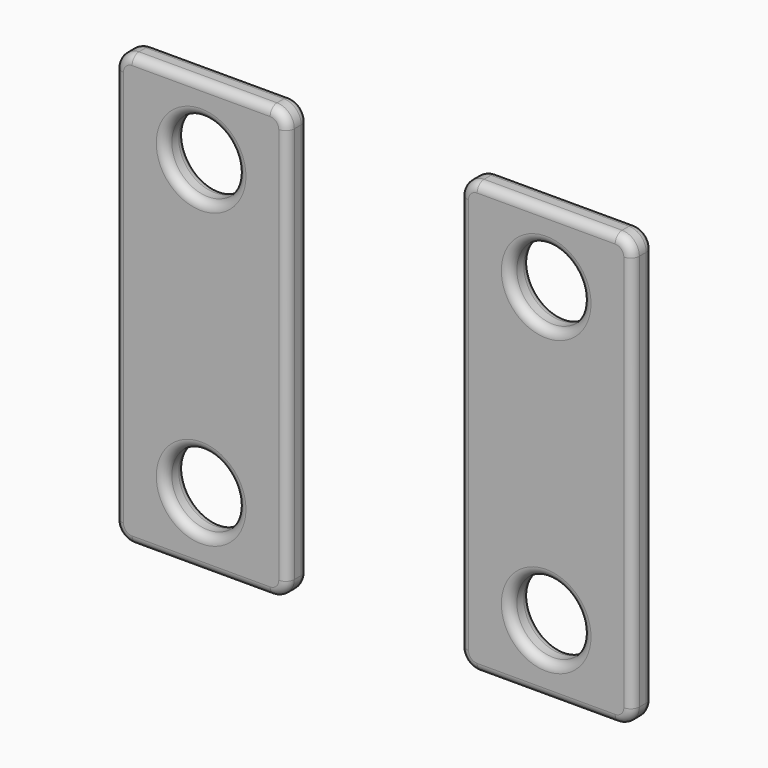
from build123d import *

# Parameters (mm, degrees)
F0_R     = 2.1
F1_DEPTH = 1.5
F2_R     = 0.5


with BuildPart() as f1:
    # F0 (on Front) → F1 (new body)
    with BuildSketch(Plane.XZ):
        with BuildLine():
            Line((14, 12.5), (6, 12.5))
            ThreePointArc((6, 12.5), (5.292893, 12.207107), (5, 11.5))
            Line((5, 11.5), (5, -11.5))
            ThreePointArc((5, -11.5), (5.292893, -12.207107), (6, -12.5))
            Line((6, -12.5), (14, -12.5))
            ThreePointArc((14, -12.5), (14.707107, -12.207107), (15, -11.5))
            Line((15, -11.5), (15, 11.5))
            ThreePointArc((15, 11.5), (14.707107, 12.207107), (14, 12.5))
        make_face()
        with Locations((10, -8.5)):
            Circle(F0_R, mode=Mode.SUBTRACT)
        with Locations((10, 8.5)):
            Circle(F0_R, mode=Mode.SUBTRACT)
        with BuildLine():
            ThreePointArc((-5, 11.5), (-5.292893, 12.207107), (-6, 12.5))
            Line((-6, 12.5), (-14, 12.5))
            ThreePointArc((-14, 12.5), (-14.707107, 12.207107), (-15, 11.5))
            Line((-15, 11.5), (-15, -11.5))
            ThreePointArc((-15, -11.5), (-14.707107, -12.207107), (-14, -12.5))
            Line((-14, -12.5), (-6, -12.5))
            ThreePointArc((-6, -12.5), (-5.292893, -12.207107), (-5, -11.5))
            Line((-5, -11.5), (-5, 11.5))
        make_face()
        with Locations((-10, -8.5)):
            Circle(F0_R, mode=Mode.SUBTRACT)
        with Locations((-10, 8.5)):
            Circle(F0_R, mode=Mode.SUBTRACT)
    extrude(amount=F1_DEPTH)

    # F2
    f2_edges = [f1.edges().sort_by_distance(p)[0] for p in [
        (-15, -1.5, 0),
        (5, -1.5, 0),
        (-12.1, -1.5, 8.5),
        (-12.1, -1.5, -8.5),
        (7.9, -1.5, 8.5),
        (7.9, -1.5, -8.5),
        (-15, 0, 0),
        (-12.1, 0, -8.5),
        (-12.1, 0, 8.5),
        (5, 0, 0),
        (7.9, 0, -8.5),
        (7.9, 0, 8.5),
    ]]
    fillet(f2_edges, radius=F2_R)


solid = f1.part
